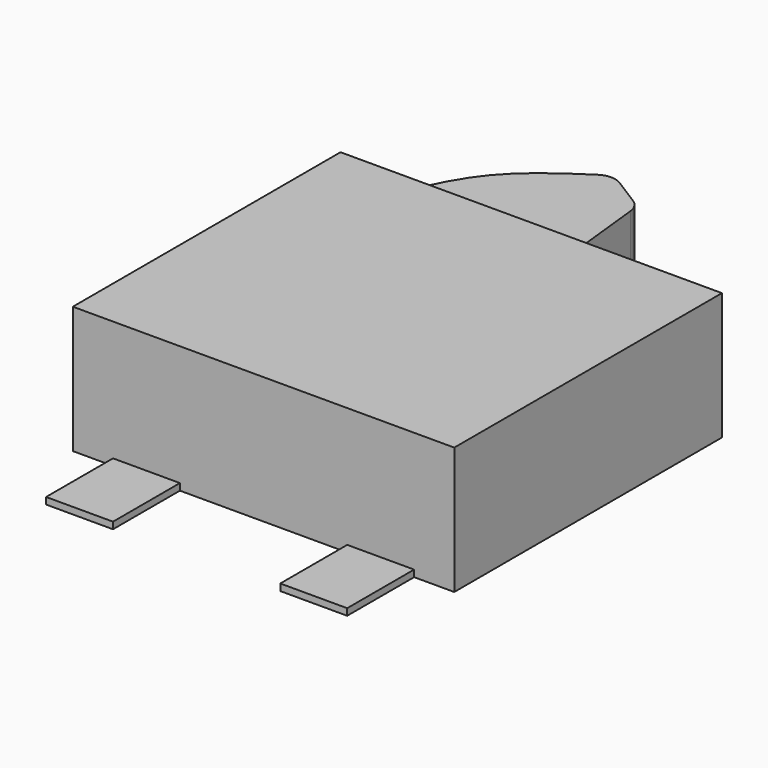
from build123d import *

# Parameters (mm, degrees)
F0_W      = 5.7
F0_H      = 5
F1_DEPTH  = 1.9
F4_DEPTH  = 1
F5_R      = 0.3
F6_R      = 0.5
F7_DEPTH  = 0.5
F8_SIZE   = 0.2
F9_W      = 1
F9_H      = 1.25
F10_DEPTH = 0.1


with BuildPart() as f1:
    # F0 (on Top) → F1 (new body)
    with BuildSketch(Plane.XY):
        Rectangle(F0_W, F0_H)
    extrude(amount=F1_DEPTH)

    # F6 (on face) → F7 (join)
    with BuildSketch(Plane(origin=(0, 0, 0), x_dir=(1, 0, 0), z_dir=(0, 0, -1))):
        with Locations((0, -1.45)):
            Circle(F6_R)
        with Locations((0, 1.05)):
            Circle(F6_R)
    extrude(amount=F7_DEPTH)

    # F8
    f8_edges = [f1.edges().sort_by_distance(p)[0] for p in [
        (-0.5, 1.45, -0.5),
        (-0.5, -1.05, -0.5),
    ]]
    chamfer(f8_edges, length=F8_SIZE)

    # F9 (on face) → F10 (join)
    with BuildSketch(Plane(origin=(0, 0, 0), x_dir=(1, 0, 0), z_dir=(0, 0, -1))):
        with Locations((1.75, 3.125)):
            Rectangle(F9_W, F9_H)
        with Locations((-1.75, 3.125)):
            Rectangle(F9_W, F9_H)
    extrude(amount=-F10_DEPTH)


with BuildPart() as f4:
    # F3 (on offset) → F4 (new body)
    with BuildSketch(Plane(origin=(0, 0, 0.5), x_dir=(1, 0, 0), z_dir=(0, 0, -1))):
        with BuildLine():
            add(Edge.make_bspline(
                [(-2.2549992427, -2.4976590648), (-2.0791823504, -2.9375716365), (-1.7234922822, -3.8275460328), (-0.8903959784, -4.3637341728), (-0.4690975184, -4.6348855831)],
                knots=[0, 0, 0, 0, 0.4942980084, 1, 1, 1, 1], degree=3))
            Line((-0.4690975184, -4.6348855831), (0.2262331254, -4.1957297362))
            Line((0.2262331254, -4.1957297362), (0.4092148738, -2.4976590648))
            Line((0.4092148738, -2.4976590648), (-2.2549992427, -2.4976590648))
        make_face()
    extrude(amount=-F4_DEPTH)

    # F5
    f5_edges = [f4.edges().sort_by_distance(p)[0] for p in [
        (-0.469098, 4.634886, 1),
        (0.226233, 4.19573, 1),
    ]]
    fillet(f5_edges, radius=F5_R)


solid = Compound([f1.part, f4.part])
